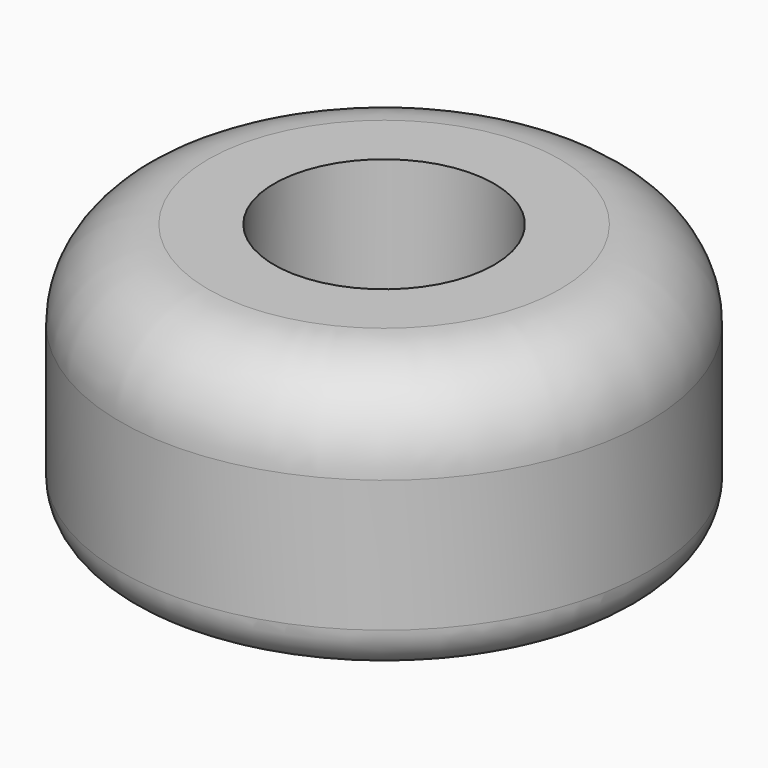
from build123d import *

# Parameters (mm, degrees)
F1_R     = 6
F1_R_2   = 2.5
F2_DEPTH = 6
F3_R     = 2
F4_R     = 1


with BuildPart() as f2:
    # F1 (on face) → F2 (new body)
    with BuildSketch(Plane.XY):
        Circle(F1_R)
        Circle(F1_R_2, mode=Mode.SUBTRACT)
    extrude(amount=F2_DEPTH)

    # F3
    f3_edges = [f2.edges().sort_by_distance(p)[0] for p in [
        (-6, 0, 6),
    ]]
    fillet(f3_edges, radius=F3_R)

    # F4
    f4_edges = [f2.edges().sort_by_distance(p)[0] for p in [
        (-6, 0, 0),
    ]]
    fillet(f4_edges, radius=F4_R)


solid = f2.part
